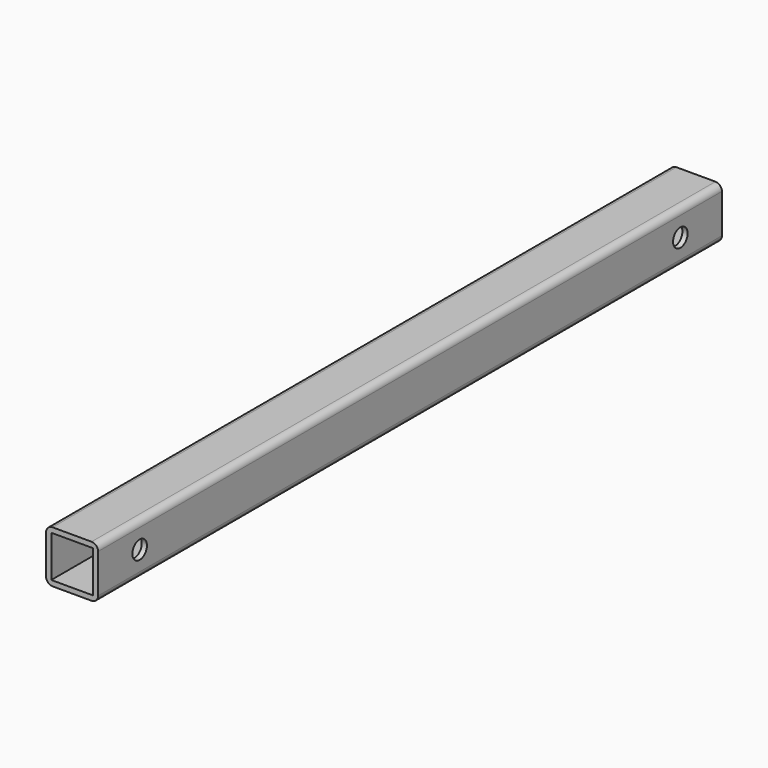
from build123d import *

# Parameters (mm, degrees)
F0_W     = 32
F0_H     = 32
F1_DEPTH = 600
F3_D     = 14
F3_DEPTH = 45
F4_D     = 14
F4_DEPTH = 45
F6_D     = 5
F6_DEPTH = 5
F7_D     = 5
F7_DEPTH = 5


with BuildPart() as f1:
    # F0 (on Front) → F1 (new body)
    with BuildSketch(Plane.XZ):
        with BuildLine():
            Line((-15, -20), (15, -20))
            ThreePointArc((15, -20), (18.535534, -18.535534), (20, -15))
            Line((20, -15), (20, 15))
            ThreePointArc((20, 15), (18.535534, 18.535534), (15, 20))
            Line((15, 20), (-15, 20))
            ThreePointArc((-15, 20), (-18.535534, 18.535534), (-20, 15))
            Line((-20, 15), (-20, -15))
            ThreePointArc((-20, -15), (-18.535534, -18.535534), (-15, -20))
        make_face()
        Rectangle(F0_W, F0_H, mode=Mode.SUBTRACT)
    extrude(amount=F1_DEPTH)

    # F3
    with Locations(Plane.YZ.offset(20)):
        with Locations((-560, 0)):
            Hole(F3_D / 2, depth=F3_DEPTH)

    # F4
    with Locations(Plane.YZ.offset(20)):
        with Locations((-40, 0)):
            Hole(F4_D / 2, depth=F4_DEPTH)

    # F6
    with Locations(Plane(origin=(0, 0, -20), x_dir=(1, 0, 0), z_dir=(0, 0, -1))):
        with Locations((0, 525)):
            Hole(F6_D / 2, depth=F6_DEPTH)

    # F7
    with Locations(Plane(origin=(0, 0, -20), x_dir=(1, 0, 0), z_dir=(0, 0, -1))):
        with Locations((0, 75)):
            Hole(F7_D / 2, depth=F7_DEPTH)


solid = f1.part
